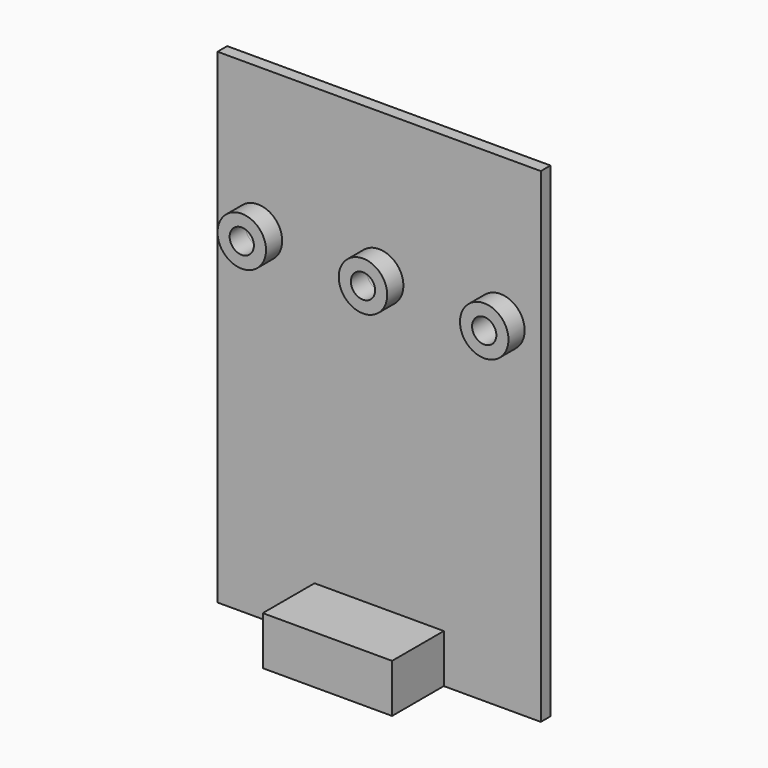
from build123d import *

# Parameters (mm, degrees)
F0_W     = 400
F0_H     = 600
F1_DEPTH = 15
F2_R     = 30
F2_R_2   = 15
F3_DEPTH = 25
F4_DEPTH = 25.001
F5_W     = 160
F5_H     = 60
F6_DEPTH = 80


with BuildPart() as f1:
    # F0 (on Front) → F1 (new body)
    with BuildSketch(Plane.XZ):
        Rectangle(F0_W, F0_H)
    extrude(amount=-F1_DEPTH)

    # F2 (on face) → F3 (join, symmetric)
    with BuildSketch(Plane.XZ):
        with Locations((-150, 120)):
            Circle(F2_R)
        with Locations((-150, 120)):
            Circle(F2_R_2, mode=Mode.SUBTRACT)
        with Locations((0, 120)):
            Circle(F2_R)
        with Locations((0, 120)):
            Circle(F2_R_2, mode=Mode.SUBTRACT)
        with Locations((150, 120)):
            Circle(F2_R)
        with Locations((150, 120)):
            Circle(F2_R_2, mode=Mode.SUBTRACT)
    extrude(amount=F3_DEPTH, both=True)

    # F4 (cut, through all): faces of the model
    f4_faces = [f1.faces().sort_by_distance(p)[0] for p in [
        (150, 0, 120),
        (0, 0, 120),
        (-150, 0, 120),
    ]]
    extrude(f4_faces, amount=-F4_DEPTH, mode=Mode.SUBTRACT)

    # F5 (on face) → F6 (join)
    with BuildSketch(Plane.XZ):
        with Locations((0, -270)):
            Rectangle(F5_W, F5_H)
    extrude(amount=F6_DEPTH)


solid = f1.part
